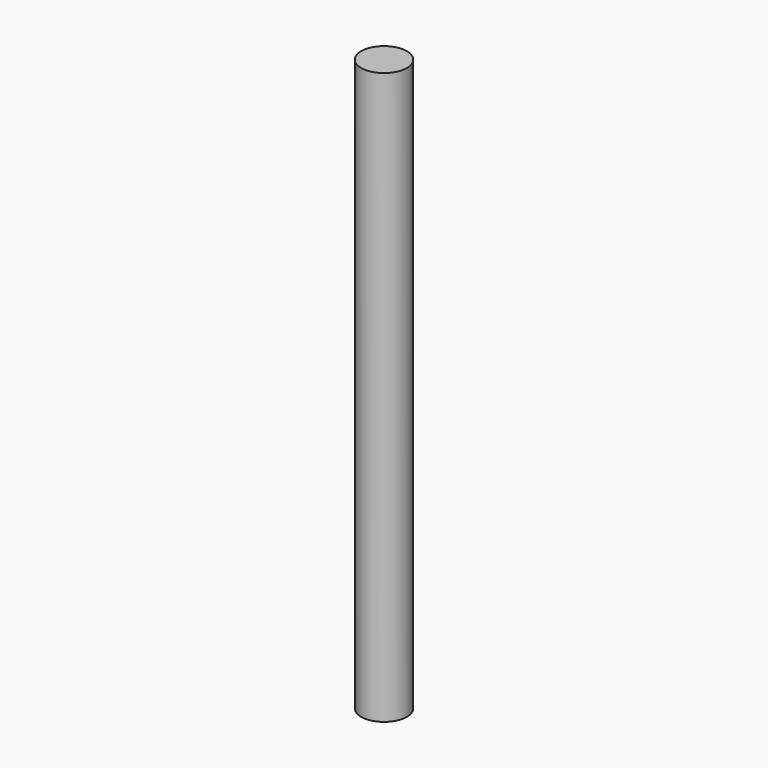
from build123d import *

# Parameters (mm, degrees)
SKETCH_R  = 5
PAD_DEPTH = 125


with BuildPart() as part:
    # Sketch → Pad (new body)
    with BuildSketch(Plane.XY):
        Circle(SKETCH_R)
    extrude(amount=PAD_DEPTH)


solid = part.part
